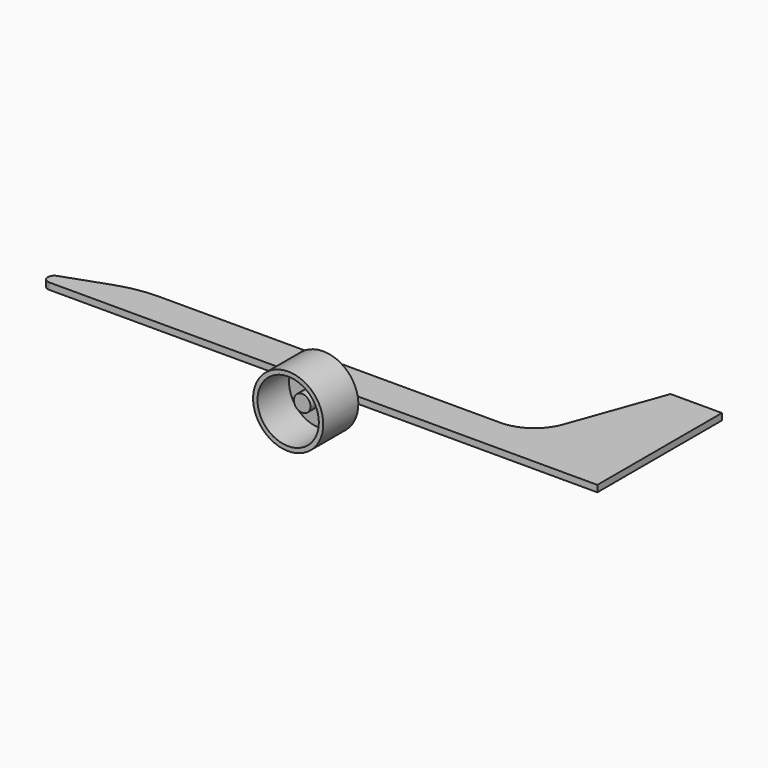
from build123d import *

# Parameters (mm, degrees)
PAD_DEPTH    = 3
SKETCH001_R  = 16
PAD001_DEPTH = 20
SKETCH002_R  = 14
POCKET_DEPTH = 18
SKETCH003_R  = 3.8
PAD002_DEPTH = 10


with BuildPart() as part:
    # Sketch → Pad (new body)
    with BuildSketch(Plane.XY):
        with BuildLine():
            Line((-125.969839, 5.652203), (-105.955548, 12.728901))
            ThreePointArc((-87.587906, 15.880533), (-96.90594, 15.08691), (-105.955548, 12.728901))
            Line((-87.587906, 15.880533), (-56.304531, 15.880533))
            Line((-56.304531, 15.880533), (67.96893, 15.880533))
            ThreePointArc((67.96893, 15.880533), (79.23833, 19.445245), (86.407644, 28.842452))
            Line((86.407644, 28.842452), (101.576416, 71.003891))
            Line((101.576416, 71.003891), (125, 71.003891))
            Line((125, 71.003891), (125, 0))
            Line((125, 0), (-125, 0))
            ThreePointArc((-125.969839, 5.652203), (-127.867402, 2.4173), (-125, 0))
        make_face()
    extrude(amount=PAD_DEPTH)

    # Sketch001 (on Face9 of Pad) → Pad001 (join)
    with BuildSketch(Plane.XZ):
        Circle(SKETCH001_R)
    extrude(amount=PAD001_DEPTH)

    # Sketch002 (on Face17 of Pad001) → Pocket (cut)
    with BuildSketch(Plane.XZ.offset(20)):
        Circle(SKETCH002_R)
    extrude(amount=-POCKET_DEPTH, mode=Mode.SUBTRACT)

    # Sketch003 (on Face19 of Pocket) → Pad002 (join)
    with BuildSketch(Plane.XZ.offset(2)):
        Circle(SKETCH003_R)
    extrude(amount=PAD002_DEPTH)


solid = part.part
